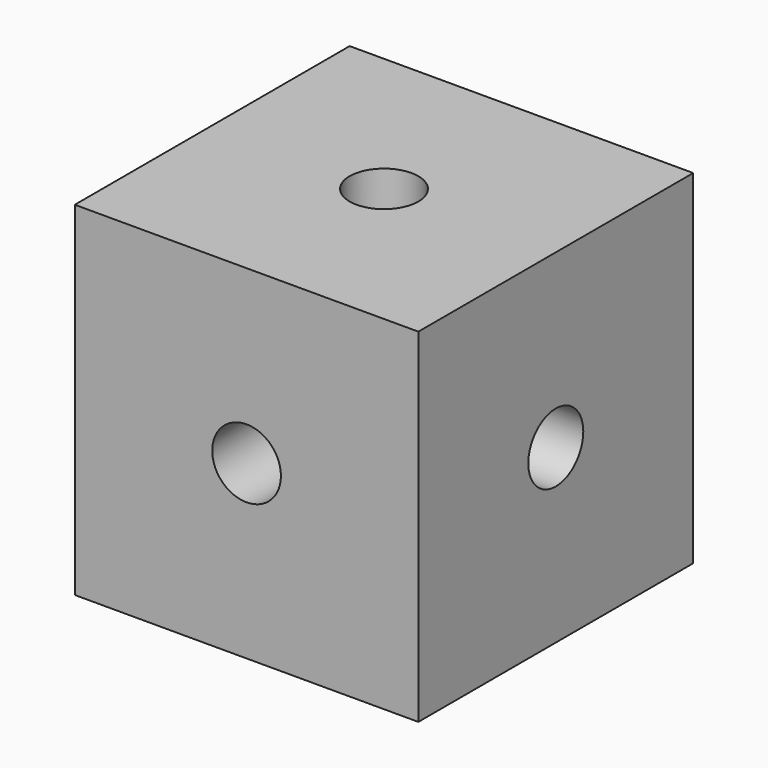
from build123d import *

# Parameters (mm, degrees)
F0_W     = 20
F0_H     = 20
F0_R     = 2
F1_DEPTH = 20
F2_R     = 2
F3_DEPTH = 20.001
F4_R     = 2
F5_DEPTH = 20.001


with BuildPart() as f1:
    # F0 (on Top) → F1 (new body)
    with BuildSketch(Plane.XY):
        with Locations((10, -10)):
            Rectangle(F0_W, F0_H)
        with Locations((10, -10)):
            Circle(F0_R, mode=Mode.SUBTRACT)
    extrude(amount=F1_DEPTH)

    # F2 (on face) → F3 (cut, through all)
    with BuildSketch(Plane.YZ.offset(20)):
        with Locations((-10, 10)):
            Circle(F2_R)
    extrude(amount=-F3_DEPTH, mode=Mode.SUBTRACT)

    # F4 (on face) → F5 (cut, through all)
    with BuildSketch(Plane.XZ.offset(20)):
        with Locations((10, 10)):
            Circle(F4_R)
    extrude(amount=-F5_DEPTH, mode=Mode.SUBTRACT)


solid = f1.part
